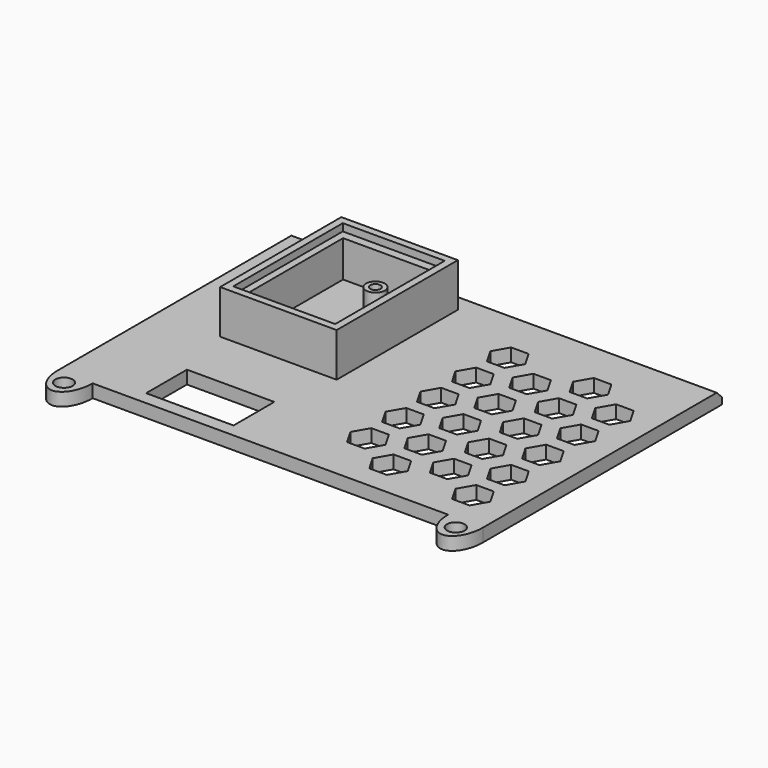
from build123d import *

# Parameters (mm, degrees)
SKETCH012_R         = 1.2
SKETCH012_W         = 12
SKETCH012_H         = 7
SKETCH012_H_2       = 3
PAD006_DEPTH        = 1.8
CHAMFER002_ANGLE    = 45
CHAMFER002_SIZE     = 0.9
POCKET_DEPTH        = 1.801
LINEARPATTERN_COUNT = 5
LINEARPATTERN_PITCH = 6
SKETCH015_W         = 16
SKETCH015_H         = 20.8
SKETCH015_W_2       = 12
SKETCH015_H_2       = 16.6
PAD007_DEPTH        = 6
SKETCH016_R         = 1.3
PAD008_DEPTH        = 4
SKETCH017_R         = 0.7
POCKET007_DEPTH     = 4
SKETCH018_W         = 14
SKETCH018_H         = 18.8
POCKET008_DEPTH     = 1


with BuildPart() as part:
    # Sketch012 → Pad006 (new body)
    with BuildSketch(Plane.XY.offset(56)):
        with BuildLine():
            Line((-29.2, -1), (29.2, -1))
            Line((29.2, -1), (29.2, -42))
            add(Edge.make_bspline(
                [(24.4, -42), (24.4, -46), (26.8, -46), (29.2, -46), (29.2, -42)],
                knots=[4.712389, 4.712389, 4.712389, 6.283185, 6.283185, 7.853982, 7.853982, 7.853982], degree=2, weights=[1, 0.707107, 1, 0.707107, 1]))
            Line((24.4, -42), (-24.4, -42))
            add(Edge.make_bspline(
                [(-29.2, -42), (-29.2, -46), (-26.8, -46), (-24.4, -46), (-24.4, -42)],
                knots=[4.712389, 4.712389, 4.712389, 6.283185, 6.283185, 7.853982, 7.853982, 7.853982], degree=2, weights=[1, 0.707107, 1, 0.707107, 1]))
            Line((-29.2, -42), (-29.2, -1))
        make_face()
        with Locations((-26.9, -43.8)):
            Circle(SKETCH012_R, mode=Mode.SUBTRACT)
        with Locations((26.9, -43.8)):
            Circle(SKETCH012_R, mode=Mode.SUBTRACT)
        with Locations((-12.5, -36.7)):
            Rectangle(SKETCH012_W, SKETCH012_H, mode=Mode.SUBTRACT)
        with Locations((-12.5, -21.5)):
            Rectangle(SKETCH012_W, SKETCH012_H_2, mode=Mode.SUBTRACT)
    extrude(amount=PAD006_DEPTH)

    # Chamfer002
    chamfer002_edges = [part.edges().sort_by_distance(p)[0] for p in [
        (0, -1, 57.8),
    ]]
    chamfer002_side = part.faces().sort_by_distance((0, -1, 56.9))[0]
    chamfer(chamfer002_edges, length=CHAMFER002_SIZE, angle=CHAMFER002_ANGLE, reference=chamfer002_side)

    # Sketch013 → Pocket (cut, through all)
    with BuildSketch(Plane.XY.offset(57.8)):
        Polygon((7.827629, -35.616149), (9.027629, -33.537688), (7.827629, -31.459227), (5.427629, -31.459227), (4.227629, -33.537688), (5.427629, -35.616149), align=None)
        Polygon((19.184551, -35.616149), (20.384551, -33.537688), (19.184551, -31.459227), (16.784551, -31.459227), (15.584551, -33.537688), (16.784551, -35.616149), align=None)
        Polygon((13.50609, -38.89461), (14.70609, -36.816149), (13.50609, -34.737688), (11.10609, -34.737688), (9.90609, -36.816149), (11.10609, -38.89461), align=None)
        Polygon((24.863012, -38.89461), (26.063012, -36.816149), (24.863012, -34.737688), (22.463012, -34.737688), (21.263012, -36.816149), (22.463012, -38.89461), align=None)
    pocket = extrude(amount=-POCKET_DEPTH, mode=Mode.SUBTRACT)

    # LinearPattern: Pocket ×5
    with Locations(*[(0, i * LINEARPATTERN_PITCH, 0) for i in range(1, LINEARPATTERN_COUNT)]):
        add(pocket, mode=Mode.SUBTRACT)

    # Sketch015 (on DatumPlane) → Pad007 (join)
    with BuildSketch(Plane.XY.offset(57.8)):
        with Locations((-12.5, -14.6)):
            Rectangle(SKETCH015_W, SKETCH015_H)
        with Locations((-12.5, -14.7)):
            Rectangle(SKETCH015_W_2, SKETCH015_H_2, mode=Mode.SUBTRACT)
    extrude(amount=PAD007_DEPTH)

    # Sketch016 (on DatumPlane) → Pad008 (join)
    with BuildSketch(Plane.XY.offset(57.8)):
        with Locations((-9.9, -11.6)):
            Circle(SKETCH016_R)
    extrude(amount=PAD008_DEPTH)

    # Sketch017 (on Face156 of Pocket008) → Pocket007 (cut)
    with BuildSketch(Plane.XY.offset(61.8)):
        with Locations((-9.9, -11.6)):
            Circle(SKETCH017_R)
    extrude(amount=-POCKET007_DEPTH, mode=Mode.SUBTRACT)

    # Sketch018 (on Face148 of Pocket007) → Pocket008 (cut)
    with BuildSketch(Plane.XY.offset(63.8)):
        with Locations((-12.5, -14.6)):
            Rectangle(SKETCH018_W, SKETCH018_H)
    extrude(amount=-POCKET008_DEPTH, mode=Mode.SUBTRACT)


solid = part.part
